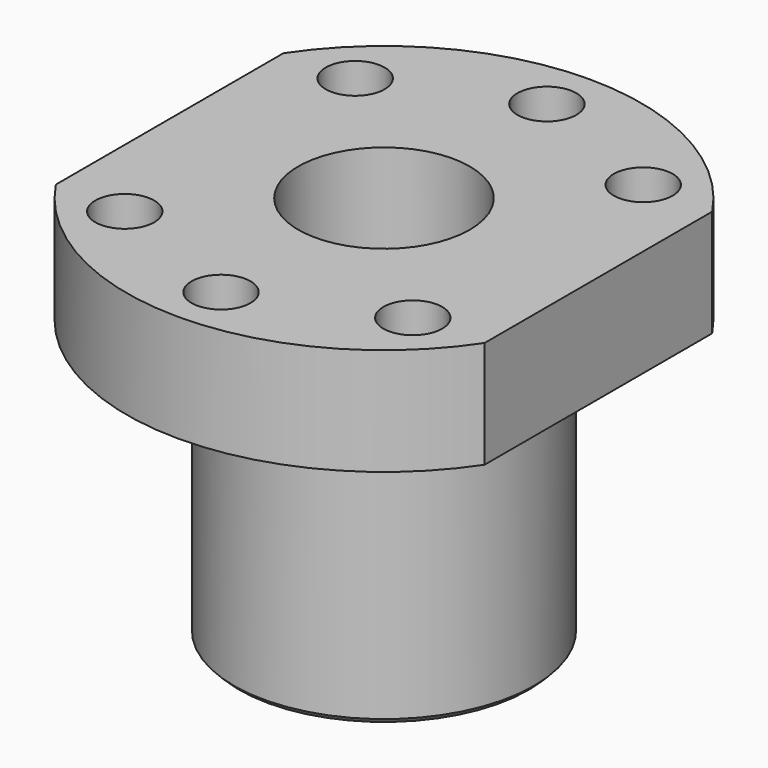
from build123d import *

# Parameters (mm, degrees)
F0_R     = 2.75
F0_R_2   = 14
F0_R_3   = 8
F1_DEPTH = 10
F2_DEPTH = 36
F3_SIZE  = 0.5


with BuildPart() as f1:
    # F0 (on Top) → F1 (new body)
    with BuildSketch(Plane.XY):
        with BuildLine():
            Line((20, -13.266499), (20, 13.266499))
            ThreePointArc((20, 13.266499), (0, 24), (-20, 13.266499))
            Line((-20, 13.266499), (-20, -13.266499))
            ThreePointArc((-20, -13.266499), (0, -24), (20, -13.266499))
        make_face()
        with Locations((-13.435029, -13.435029)):
            Circle(F0_R, mode=Mode.SUBTRACT)
        with Locations((0, -19)):
            Circle(F0_R, mode=Mode.SUBTRACT)
        with Locations((13.435029, -13.435029)):
            Circle(F0_R, mode=Mode.SUBTRACT)
        with Locations((-13.435029, 13.435029)):
            Circle(F0_R, mode=Mode.SUBTRACT)
        Circle(F0_R_2, mode=Mode.SUBTRACT)
        with Locations((0, 19)):
            Circle(F0_R, mode=Mode.SUBTRACT)
        with Locations((13.435029, 13.435029)):
            Circle(F0_R, mode=Mode.SUBTRACT)
        Circle(F0_R_2)
        Circle(F0_R_3, mode=Mode.SUBTRACT)
    extrude(amount=-F1_DEPTH)

    # F0 (on Top) → F2 (join)
    with BuildSketch(Plane.XY):
        Circle(F0_R_2)
        Circle(F0_R_3, mode=Mode.SUBTRACT)
    extrude(amount=-F2_DEPTH)

    # F3
    f3_edges = [f1.edges().sort_by_distance(p)[0] for p in [
        (-14, 0, -36),
    ]]
    chamfer(f3_edges, length=F3_SIZE)


solid = f1.part
